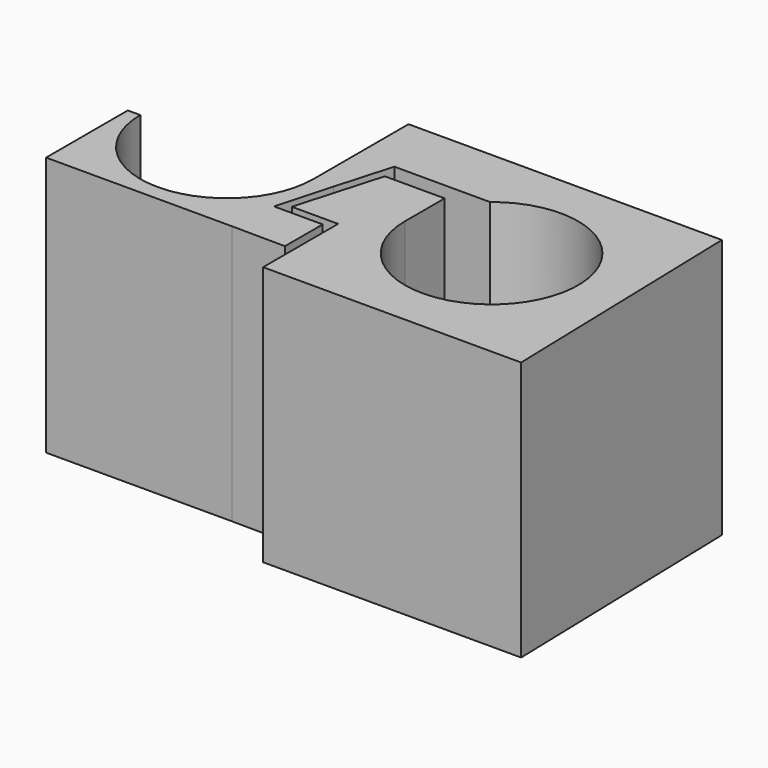
from build123d import *

# Parameters (mm, degrees)
F1_DEPTH = 12


with BuildPart() as f1:
    # F0 (on Top) → F1 (new body)
    with BuildSketch(Plane.XY):
        with BuildLine():
            ThreePointArc((-2.542081, 3.088337), (3.617204, -1.707582), (-4, 0))
            Line((-4, 0), (-4, 2.288375))
            Line((-4, 2.288375), (-6.763066, 2.288375))
            Line((-6.763066, 2.288375), (-7.895562, -1.667487))
            Line((-7.895562, -1.667487), (-5.755623, -1.667487))
            Line((-5.755623, -1.667487), (-5.755623, -6))
            Line((-5.755623, -6), (6.164354, -6))
            Line((6.164354, -6), (5.840028, 6))
            Line((5.840028, 6), (-8.637475, 6))
            Line((-8.637475, 6), (-8.637475, 0.512484))
            ThreePointArc((-8.637475, 0.512484), (-12.637475, -3.487516), (-16.637475, 0.512484))
            Line((-16.637475, 0.512484), (-17.216573, 0.512484))
            Line((-17.216573, 0.512484), (-17.216573, -4.205178))
            Line((-17.216573, -4.205178), (-8.637475, -4.205178))
            Line((-8.637475, -4.205178), (-6.16524, -4.227431))
            Line((-6.16524, -4.227431), (-6.16524, -2.048139))
            Line((-6.16524, -2.048139), (-8.411505, -2.048139))
            Line((-8.411505, -2.048139), (-7.701935, 0.512484))
            Line((-7.701935, 0.512484), (-6.964513, 3.088337))
            Line((-6.964513, 3.088337), (-2.542081, 3.088337))
        make_face()
    extrude(amount=F1_DEPTH)


solid = f1.part
